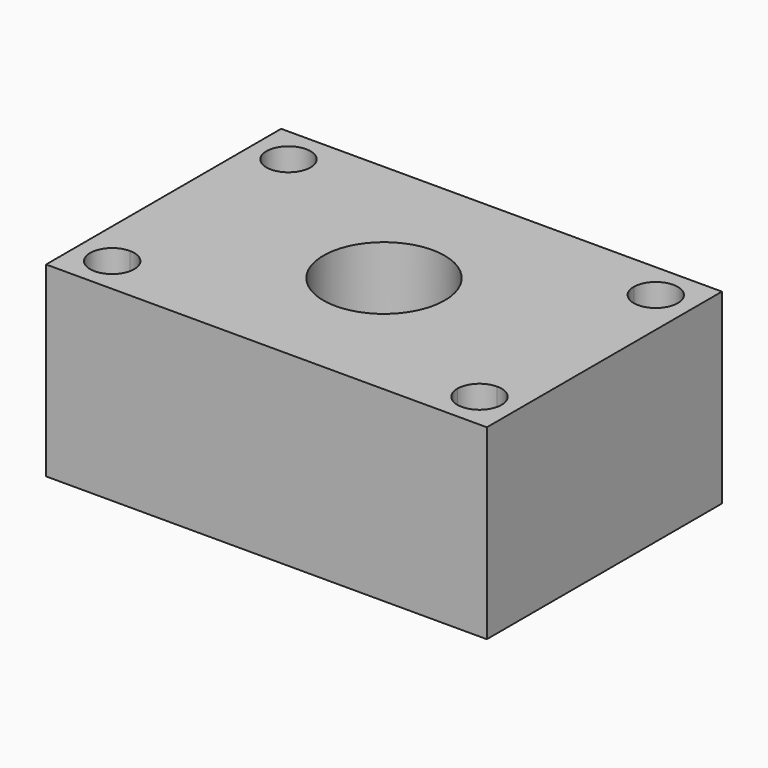
from build123d import *

# Parameters (mm, degrees)
F0_W     = 60
F0_H     = 40
F0_R     = 8.260965
F2_DEPTH = 25.4


with BuildPart() as f2:
    # F0 (on Top) → F2 (new body)
    with BuildSketch(Plane.XY):
        Rectangle(F0_W, F0_H)
        with BuildLine():
            ThreePointArc((-25, 12), (-27.12132, 17.12132), (-22, 15))
            Line((-22, 15), (22, 15))
            ThreePointArc((22, 15), (25, 18), (28, 15))
            ThreePointArc((28, 15), (27.12132, 12.87868), (25, 12))
            Line((25, 12), (25, -12))
            ThreePointArc((25, -12), (27.12132, -12.87868), (28, -15))
            ThreePointArc((28, -15), (25, -18), (22, -15))
            Line((22, -15), (-22, -15))
            ThreePointArc((-22, -15), (-27.12132, -17.12132), (-25, -12))
            Line((-25, -12), (-25, 12))
        make_face(mode=Mode.SUBTRACT)
        with BuildLine():
            Line((22, 15), (-22, 15))
            ThreePointArc((-22, 15), (-22.87868, 12.87868), (-25, 12))
            Line((-25, 12), (-25, -12))
            ThreePointArc((-25, -12), (-22.87868, -12.87868), (-22, -15))
            Line((-22, -15), (22, -15))
            ThreePointArc((22, -15), (22.87868, -12.87868), (25, -12))
            Line((25, -12), (25, 12))
            ThreePointArc((25, 12), (22.87868, 12.87868), (22, 15))
        make_face()
        Circle(F0_R, mode=Mode.SUBTRACT)
    extrude(amount=F2_DEPTH)


solid = f2.part
